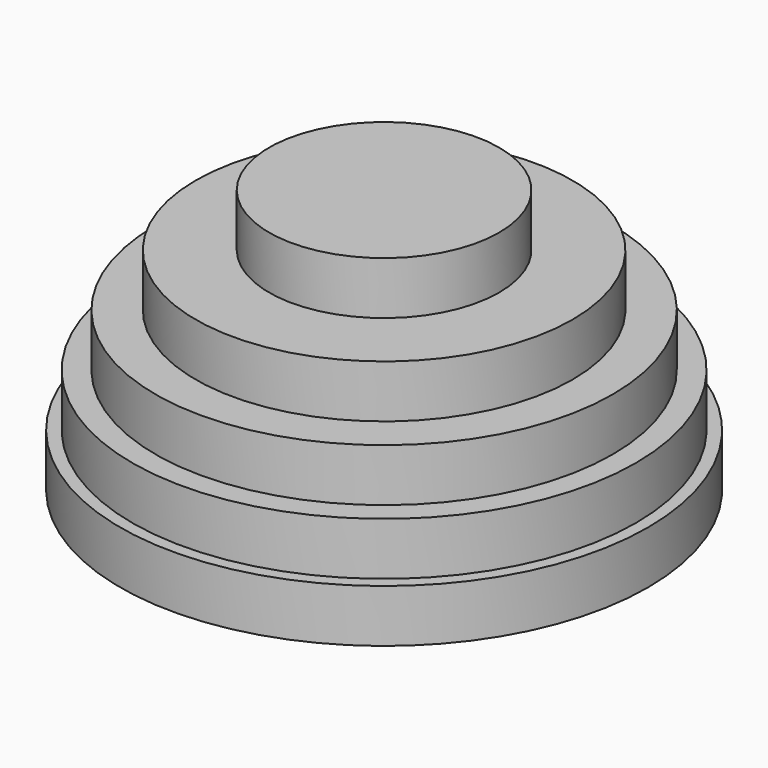
from build123d import *

# Parameters (mm, degrees)
F0_R     = 50.8
F1_DEPTH = 10.16
F2_R     = 48.4632
F3_DEPTH = 10.16
F4_R     = 43.9928
F5_DEPTH = 10.16
F6_R     = 36.2712
F7_DEPTH = 10.16
F8_R     = 22.1488
F9_DEPTH = 10.16


with BuildPart() as f1:
    # F0 (on Top) → F1 (new body)
    with BuildSketch(Plane.XY):
        Circle(F0_R)
    extrude(amount=F1_DEPTH)

    # F2 (on face) → F3 (join)
    with BuildSketch(Plane.XY.offset(10.16)):
        Circle(F2_R)
    extrude(amount=F3_DEPTH)

    # F4 (on face) → F5 (join)
    with BuildSketch(Plane.XY.offset(20.32)):
        Circle(F4_R)
    extrude(amount=F5_DEPTH)

    # F6 (on face) → F7 (join)
    with BuildSketch(Plane.XY.offset(30.48)):
        Circle(F6_R)
    extrude(amount=F7_DEPTH)

    # F8 (on face) → F9 (join)
    with BuildSketch(Plane.XY.offset(40.64)):
        Circle(F8_R)
    extrude(amount=F9_DEPTH)


solid = f1.part
